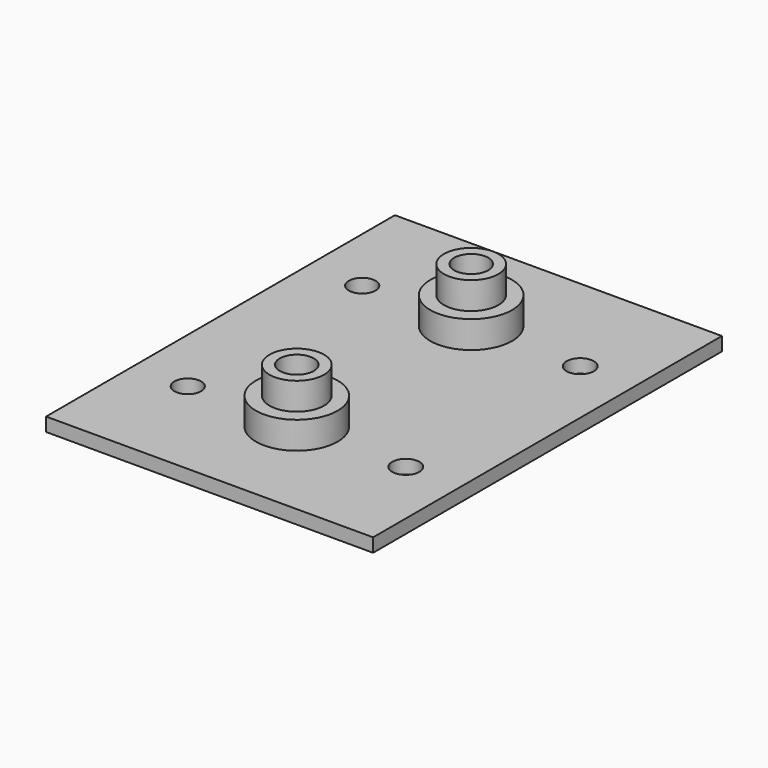
from build123d import *

# Parameters (mm, degrees)
F0_W      = 76.2
F0_H      = 101.6
F1_DEPTH  = 3.175
F2_R      = 6.35
F3_DEPTH  = 12.7
F4_R      = 3.96875
F5_R      = 3.96875
F6_DEPTH  = 38.1
F7_R      = 3.175
F7_R_2    = 3.1115
F8_DEPTH  = 25.4
F9_R      = 9.525
F9_R_2    = 6.35
F10_DEPTH = 6.35


with BuildPart() as f1:
    # F0 (on Top) → F1 (new body)
    with BuildSketch(Plane.XY):
        Rectangle(F0_W, F0_H)
    extrude(amount=F1_DEPTH)

    # F2 (on face) → F3 (join)
    with BuildSketch(Plane.XY.offset(3.175)):
        with Locations((0, 25.4)):
            Circle(F2_R)
        with Locations((0, -25.4)):
            Circle(F2_R)
    extrude(amount=F3_DEPTH)

    # F4 (on face) + F5 (on face) → F6 (cut)
    with BuildSketch(Plane.XY.offset(15.875)):
        with Locations((0, 25.4)):
            Circle(F4_R)
    with BuildSketch(Plane.XY.offset(15.875)):
        with Locations((0, -25.4)):
            Circle(F5_R)
    extrude(amount=-F6_DEPTH, mode=Mode.SUBTRACT)

    # F7 (on face) → F8 (cut)
    with BuildSketch(Plane.XY.offset(3.175)):
        with Locations((25.4, 25.4)):
            Circle(F7_R)
        with Locations((25.4, -25.4)):
            Circle(F7_R)
        with Locations((-25.4, 25.4)):
            Circle(F7_R_2)
        with Locations((-25.4, -25.4)):
            Circle(F7_R_2)
    extrude(amount=-F8_DEPTH, mode=Mode.SUBTRACT)

    # F9 (on face) → F10 (join)
    with BuildSketch(Plane.XY.offset(3.175)):
        with Locations((0, 25.4)):
            Circle(F9_R)
        with Locations((0, 25.4)):
            Circle(F9_R_2, mode=Mode.SUBTRACT)
        with Locations((0, -25.4)):
            Circle(F9_R)
        with Locations((0, -25.4)):
            Circle(F9_R_2, mode=Mode.SUBTRACT)
    extrude(amount=F10_DEPTH)


solid = f1.part
